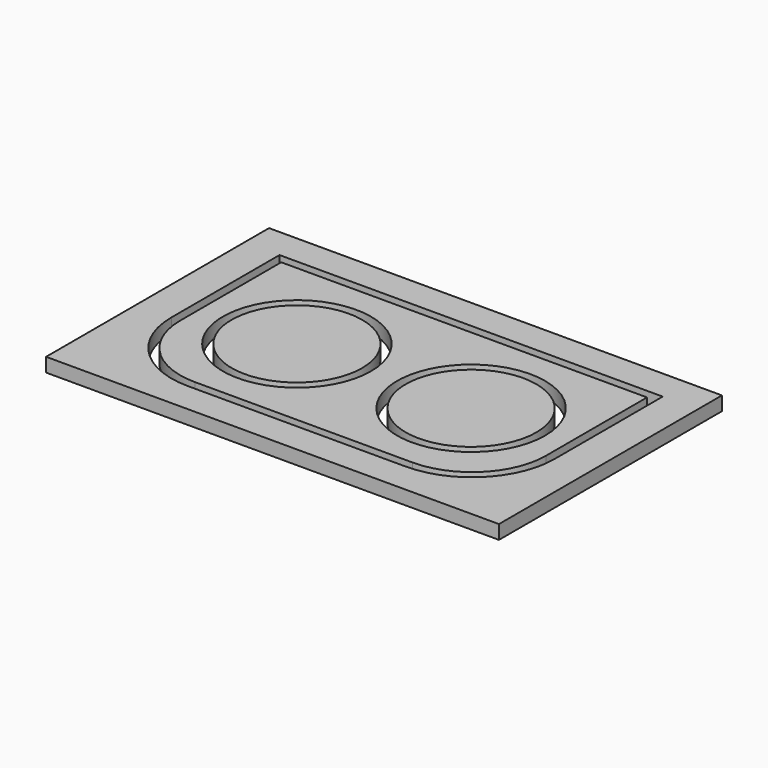
from build123d import *

# Parameters (mm, degrees)
F0_R          = 26.9875
F1_DEPTH      = 5.08
F0_R_2        = 23.8125
F0_W          = 165.1
F0_H          = 101.6
F3_DEPTH      = 76.2
F3_DEPTH_BACK = 76.2


with BuildPart() as f1:
    # F0 (on Top) → F1 (new body)
    with BuildSketch(Plane.XY):
        with BuildLine():
            Line((66.675, 36.5125), (-66.675, 36.5125))
            Line((-66.675, 36.5125), (-66.675, -9.55675))
            ThreePointArc((-66.675, -9.55675), (-58.779843617, -28.617343617), (-39.71925, -36.5125))
            Line((-39.71925, -36.5125), (39.6875, -36.5125))
            ThreePointArc((39.6875, -36.5125), (58.7705442573, -28.6080442573), (66.675, -9.525))
            Line((66.675, -9.525), (66.675, 36.5125))
        make_face()
        with Locations((-31.75, 0)):
            Circle(F0_R, mode=Mode.SUBTRACT)
        with Locations((31.75, 0)):
            Circle(F0_R, mode=Mode.SUBTRACT)
    extrude(amount=F1_DEPTH)



with BuildPart() as f1b:
    # F0 (on Top) → F1, piece 2 (new body)
    with BuildSketch(Plane.XY):
        with Locations((-31.75, 0)):
            Circle(F0_R_2)
    extrude(amount=F1_DEPTH)


with BuildPart() as f1c:
    # F0 (on Top) → F1, piece 3 (new body)
    with BuildSketch(Plane.XY):
        with Locations((31.75, 0)):
            Circle(F0_R_2)
    extrude(amount=F1_DEPTH)


with BuildPart() as f1d:
    # F0 (on Top) → F1, piece 4 (new body)
    with BuildSketch(Plane.XY):
        Rectangle(F0_W, F0_H)
        with BuildLine():
            Line((-73.025, -9.55675), (-73.025, 42.8625))
            Line((-73.025, 42.8625), (73.025, 42.8625))
            Line((73.025, 42.8625), (73.025, -9.525))
            ThreePointArc((73.025, -9.525), (63.2606723178, -33.0981723178), (39.6875, -42.8625))
            Line((39.6875, -42.8625), (-39.71925, -42.8625))
            ThreePointArc((-39.71925, -42.8625), (-63.2699716775, -33.1074716775), (-73.025, -9.55675))
        make_face(mode=Mode.SUBTRACT)
        with BuildLine():
            Line((73.025, 42.8625), (-73.025, 42.8625))
            Line((-73.025, 42.8625), (-73.025, -9.55675))
            ThreePointArc((-73.025, -9.55675), (-63.2699716775, -33.1074716775), (-39.71925, -42.8625))
            Line((-39.71925, -42.8625), (39.6875, -42.8625))
            ThreePointArc((39.6875, -42.8625), (63.2606723178, -33.0981723178), (73.025, -9.525))
            Line((73.025, -9.525), (73.025, 42.8625))
        make_face()
        with BuildLine():
            Line((-69.85, -9.55675), (-69.85, 39.6875))
            Line((-69.85, 39.6875), (69.85, 39.6875))
            Line((69.85, 39.6875), (69.85, -9.525))
            ThreePointArc((69.85, -9.525), (61.0156082875, -30.8531082875), (39.6875, -39.6875))
            Line((39.6875, -39.6875), (-39.71925, -39.6875))
            ThreePointArc((-39.71925, -39.6875), (-61.0249076472, -30.8624076472), (-69.85, -9.55675))
        make_face(mode=Mode.SUBTRACT)
    extrude(amount=F1_DEPTH)


with BuildPart() as f1_1:
    add(f1.part)

    add(f1b.part)  # F3 merges F1b

    add(f1c.part)  # F3 merges F1c

    add(f1d.part)  # F3 merges F1d
    # F2 (on Right) → F3 (join, two sides)
    with BuildSketch(Plane.YZ) as f3_sk:
        with BuildLine():
            Line((-0.9525, 0), (0.9525, 0))
            ThreePointArc((0.9525, 0), (0, 0.9525), (-0.9525, 0))
        make_face()
    extrude(amount=F3_DEPTH)
    extrude(f3_sk.sketch, amount=-F3_DEPTH_BACK)


solid = f1_1.part
